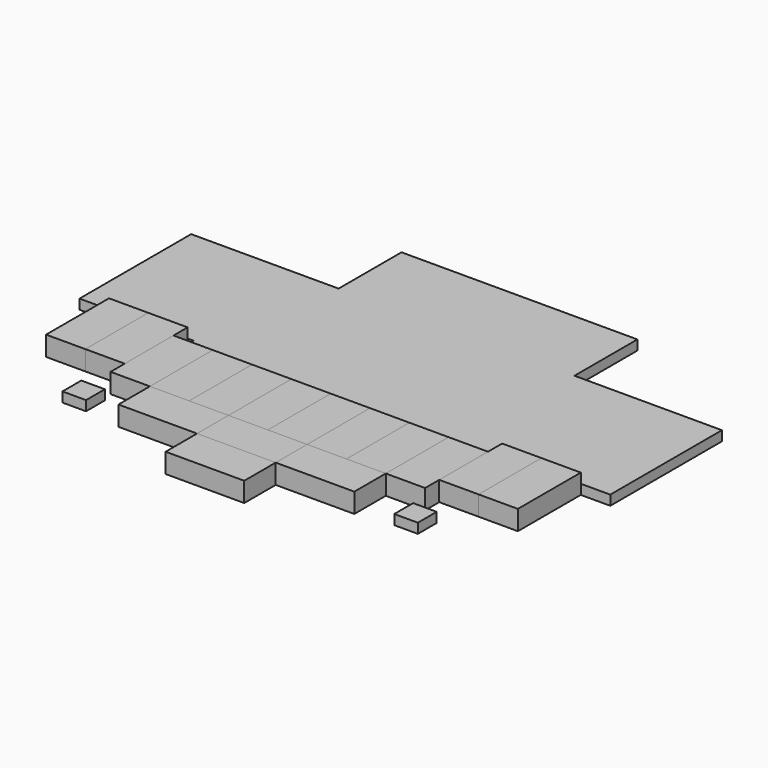
from build123d import *

# Parameters (mm, degrees)
F0_W     = 1000
F0_H     = 2000
F1_DEPTH = 500
F2_DEPTH = 500
F3_DEPTH = 500
F0_W_2   = 2000
F0_H_2   = 1000
F4_DEPTH = 500
F0_W_3   = 150
F0_H_3   = 450
F5_DEPTH = 25
F6_DEPTH = 500
F0_W_4   = 600
F0_H_4   = 600
F7_DEPTH = 250


with BuildPart() as f1:
    # F0 (on Top) → F1 (new body)
    with BuildSketch(Plane.XY):
        with Locations((-1500, 1450)):
            Rectangle(F0_W, F0_H)
    extrude(amount=F1_DEPTH)


with BuildPart() as f2:
    # F0 (on Top) → F2 (new body)
    with BuildSketch(Plane.XY):
        Polygon((0, 450), (0, 0), (1000, 0), (1000, 2000), (150, 2000), (0, 2000), align=None)
        with Locations((2500, 1000)):
            Rectangle(F0_W, F0_H)
        with Locations((4500, 1000)):
            Rectangle(F0_W, F0_H)
        with Locations((6500, 1000)):
            Rectangle(F0_W, F0_H)
        Polygon((8000, 2000), (8000, 450), (9000, 450), (9000, 2450), (8000, 2450), align=None)
    extrude(amount=F2_DEPTH)


with BuildPart() as f3:
    # F0 (on Top) → F3 (new body)
    with BuildSketch(Plane.XY):
        Polygon((-1000, 450), (0, 450), (0, 2000), (0, 2450), (-1000, 2450), align=None)
        with Locations((1500, 1000)):
            Rectangle(F0_W, F0_H)
        with Locations((3500, 1000)):
            Rectangle(F0_W, F0_H)
        with Locations((5500, 1000)):
            Rectangle(F0_W, F0_H)
        Polygon((7000, 2000), (7000, 0), (8000, 0), (8000, 450), (8000, 2000), (7850, 2000), align=None)
        with Locations((9500, 1450)):
            Rectangle(F0_W, F0_H)
    extrude(amount=F3_DEPTH)


with BuildPart() as f4:
    # F0 (on Top) → F4 (new body)
    with BuildSketch(Plane.XY):
        Polygon((2000, 0), (1000, 0), (1000, -1000), (3000, -1000), (3000, 0), align=None)
        with Locations((4000, -1500)):
            Rectangle(F0_W_2, F0_H_2)
        Polygon((5000, 0), (5000, -1000), (7000, -1000), (7000, 0), (6000, 0), align=None)
    extrude(amount=F4_DEPTH)


with BuildPart() as f5:
    # F0 (on Top) → F5 (new body)
    with BuildSketch(Plane.XY):
        with Locations((75, 2225)):
            Rectangle(F0_W_3, F0_H_3)
        with Locations((7925, 2225)):
            Rectangle(F0_W_3, F0_H_3)
    extrude(amount=F5_DEPTH)


with BuildPart() as f6:
    # F0 (on Top) → F6 (new body)
    with BuildSketch(Plane.XY):
        Polygon((4000, 0), (3000, 0), (3000, -1000), (5000, -1000), (5000, 0), align=None)
    extrude(amount=F6_DEPTH)


with BuildPart() as f7:
    # F0 (on Top) → F7 (new body)
    with BuildSketch(Plane.XY):
        Polygon((150, 2000), (1000, 2000), (2000, 2000), (3000, 2000), (4000, 2000), (5000, 2000), (6000, 2000), (7000, 2000), (7850, 2000), (7850, 2450), (8000, 2450), (9000, 2450), (10000, 2450), (10750, 2450), (10750, 6000), (7000, 6000), (7000, 8000), (1000, 8000), (1000, 6000), (-2750, 6000), (-2750, 2450), (-2000, 2450), (-1000, 2450), (0, 2450), (150, 2450), align=None)
        with Locations((-220, -580)):
            Rectangle(F0_W_4, F0_H_4)
        with Locations((8220, -580)):
            Rectangle(F0_W_4, F0_H_4)
    extrude(amount=F7_DEPTH)


solid = Compound([f1.part, f2.part, f3.part, f4.part, f5.part, f6.part, f7.part])
